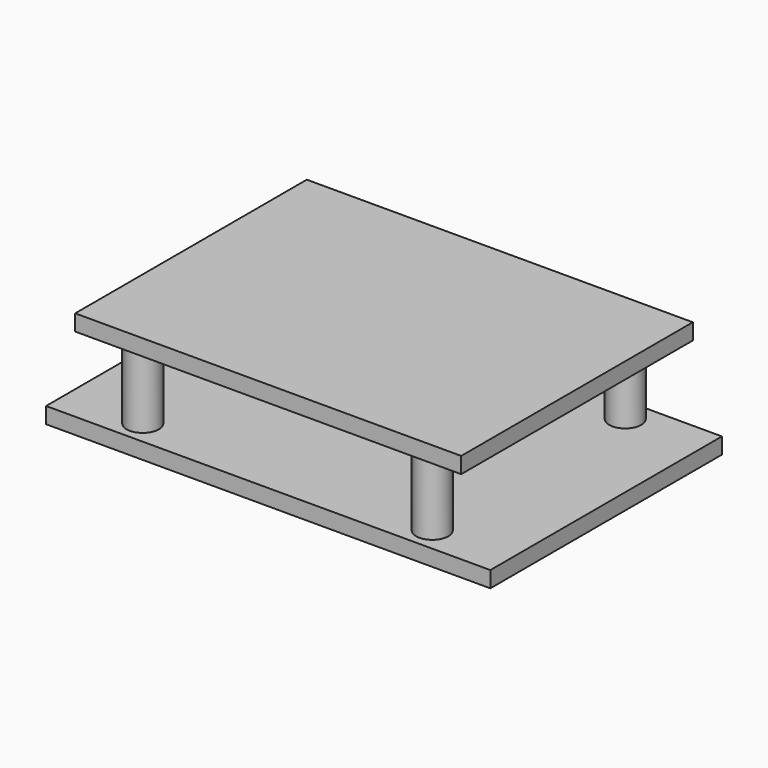
from build123d import *

# Parameters (mm, degrees)
F0_W     = 609.6
F0_H     = 25.4
F0_W_2   = 701.622834
F1_DEPTH = 457.2
F2_R     = 25.4
F3_DEPTH = 129.54


with BuildPart() as f1:
    # F0 (on Front) → F1 (new body)
    with BuildSketch(Plane.XZ):
        with Locations((0, 108.543219)):
            Rectangle(F0_W, F0_H)
        with Locations((0, -35.228862)):
            Rectangle(F0_W_2, F0_H)
    extrude(amount=F1_DEPTH)


with BuildPart() as f3:
    # F2 (on face) → F3 (new body)
    with BuildSketch(Plane(origin=(0, 0, 95.843219), x_dir=(1, 0, 0), z_dir=(0, 0, -1))):
        with BuildLine():
            ThreePointArc((-254, 419.1), (-228.6, 393.7), (-203.2, 419.1))
            ThreePointArc((-203.2, 419.1), (-228.6, 444.5), (-254, 419.1))
        make_face()
        with Locations((228.6, 419.1)):
            Circle(F2_R)
        with Locations((228.6, 38.1)):
            Circle(F2_R)
        with BuildLine():
            ThreePointArc((-254, 38.1), (-228.6, 12.7), (-203.2, 38.1))
            ThreePointArc((-203.2, 38.1), (-228.6, 63.5), (-254, 38.1))
        make_face()
    extrude(amount=F3_DEPTH)


solid = Compound([f1.part, f3.part])
